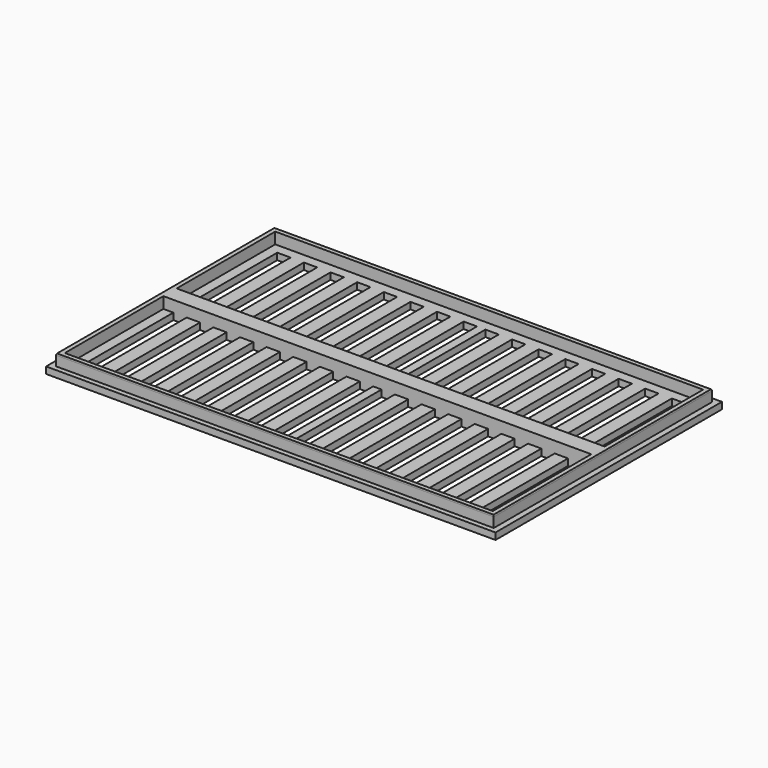
from build123d import *

# Parameters (mm, degrees)
F0_W      = 135
F0_H      = 85
F1_DEPTH  = 2
F2_W      = 131.53
F2_H      = 82
F2_W_2    = 128.53
F2_H_2    = 79
F3_DEPTH  = 3.38
F4_SIZE2  = 0.3464101615
F4_SIZE   = 0.2
F5_R      = 0.3
F6_W      = 4
F6_H      = 73
F7_DEPTH  = 25
F8_DEPTH  = 1
F9_DEPTH  = 1
F10_W     = 128.53
F10_H     = 5
F11_DEPTH = 5.38


with BuildPart() as f1:
    # F0 (on Top) → F1 (new body)
    with BuildSketch(Plane.XY):
        Rectangle(F0_W, F0_H)
    extrude(amount=F1_DEPTH)

    # F2 (on face) → F3 (join)
    with BuildSketch(Plane.XY.offset(2)):
        Rectangle(F2_W, F2_H)
        Rectangle(F2_W_2, F2_H_2, mode=Mode.SUBTRACT)
    extrude(amount=F3_DEPTH)

    # F4
    f4_edges = [f1.edges().sort_by_distance(p)[0] for p in [
        (-65.765, 0, 5.38),
        (0, 41, 5.38),
        (0, -41, 5.38),
        (65.765, 0, 5.38),
    ]]
    f4_side = f1.faces().sort_by_distance((0, 40.845003, 5.38))[0]
    chamfer(f4_edges, length=F4_SIZE, length2=F4_SIZE2, reference=f4_side)

    # F5
    f5_edges = [f1.edges().sort_by_distance(p)[0] for p in [
        (65.765, 0, 5.03359),
        (0, 41, 5.03359),
        (0, -41, 5.03359),
        (-65.765, 0, 5.03359),
    ]]
    fillet(f5_edges, radius=F5_R)

    # F6 (on face) → F7 (cut)
    with BuildSketch(Plane.XY.offset(2)):
        with Locations((-59.265, 0)):
            Rectangle(F6_W, F6_H)
        with Locations((-51.265, 0)):
            Rectangle(F6_W, F6_H)
        with Locations((-43.265, 0)):
            Rectangle(F6_W, F6_H)
        with Locations((-35.265, 0)):
            Rectangle(F6_W, F6_H)
        with Locations((-27.265, 0)):
            Rectangle(F6_W, F6_H)
        with Locations((-19.265, 0)):
            Rectangle(F6_W, F6_H)
        with Locations((-11.265, 0)):
            Rectangle(F6_W, F6_H)
        with Locations((-3.265, 0)):
            Rectangle(F6_W, F6_H)
        with Locations((35.265, 0)):
            Rectangle(F6_W, F6_H)
        with Locations((43.265, 0)):
            Rectangle(F6_W, F6_H)
        with Locations((51.265, 0)):
            Rectangle(F6_W, F6_H)
        with Locations((3.265, 0)):
            Rectangle(F6_W, F6_H)
        with Locations((59.265, 0)):
            Rectangle(F6_W, F6_H)
        with Locations((11.265, 0)):
            Rectangle(F6_W, F6_H)
        with Locations((19.265, 0)):
            Rectangle(F6_W, F6_H)
        with Locations((27.265, 0)):
            Rectangle(F6_W, F6_H)
    extrude(amount=-F7_DEPTH, mode=Mode.SUBTRACT)

    # F8 (cut): a face of the model
    f8_faces = [f1.faces().sort_by_distance(p)[0] for p in [
        (0, 0, 0),
    ]]
    extrude(f8_faces, amount=-F8_DEPTH, mode=Mode.SUBTRACT)

    # F9 (add): a face of the model
    f9_faces = [f1.faces().sort_by_distance(p)[0] for p in [
        (0, 0, 1),
    ]]
    extrude(f9_faces, amount=F9_DEPTH)

    # F10 (on face) → F11 (join, through all)
    with BuildSketch(Plane.XY.offset(5.38)):
        Rectangle(F10_W, F10_H)
    extrude(amount=-F11_DEPTH)


solid = f1.part
